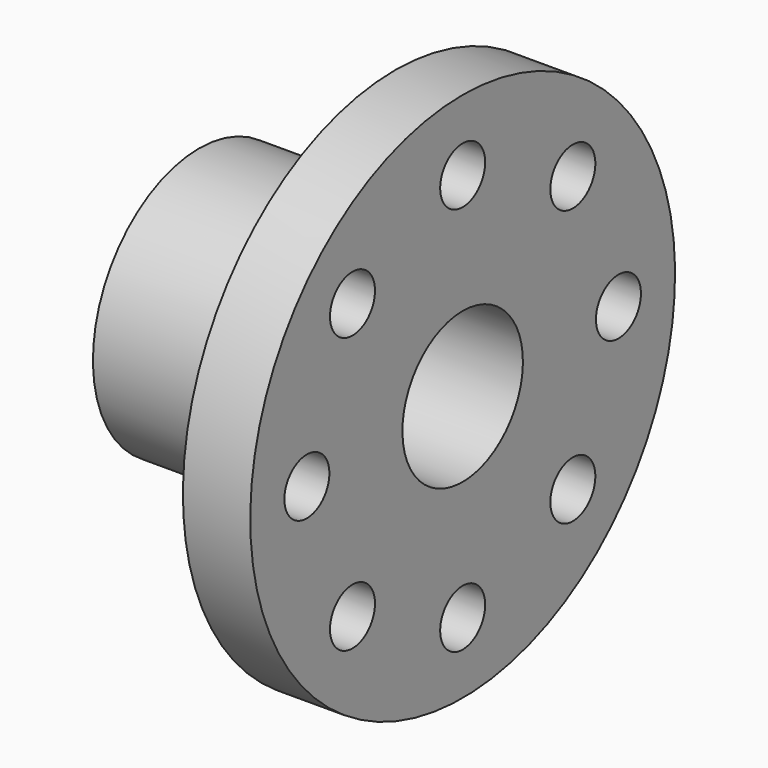
from build123d import *

# Parameters (mm, degrees)
F2_R     = 6.5
F3_DEPTH = 15.567862


with BuildPart() as f1:
    # F0 (on Front) → F1 (revolve)
    with BuildSketch(Plane.XZ):
        Polygon((-36.170062, 17.398257), (24.723839, 17.398257), (24.723839, 61.351746), (9.156977, 61.351746), (9.156977, 30.675873), (-36.170062, 30.675873), align=None)
    revolve(axis=Axis((-16.482558, 0, 0), (-1, 0, 0)))

    # F2 (on face) → F3 (cut, through all)
    with BuildSketch(Plane(origin=(9.156977, 0, 0), x_dir=(0, -1, 0), z_dir=(-1, 0, 0))):
        with Locations((0, 45)):
            Circle(F2_R)
        with Locations((-31.819805, 31.819805)):
            Circle(F2_R)
        with Locations((-45, 0)):
            Circle(F2_R)
        with Locations((-31.819805, -31.819805)):
            Circle(F2_R)
        with Locations((0, -45)):
            Circle(F2_R)
        with Locations((31.819805, -31.819805)):
            Circle(F2_R)
        with Locations((45, 0)):
            Circle(F2_R)
        with Locations((31.819805, 31.819805)):
            Circle(F2_R)
    extrude(amount=-F3_DEPTH, mode=Mode.SUBTRACT)


solid = f1.part
